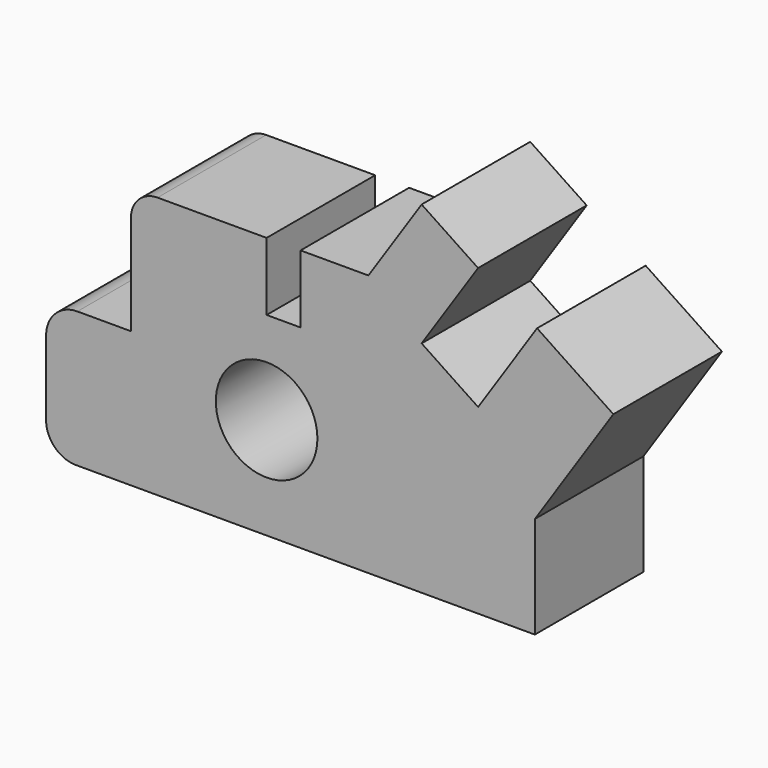
from build123d import *

# Parameters (mm, degrees)
F0_R     = 190.177038
F1_DEPTH = 508


with BuildPart() as f1:
    # F0 (on Front) → F1 (new body)
    with BuildSketch(Plane.XZ):
        with BuildLine():
            Line((-762.317914, -257.843844), (-762.317914, -630.775266))
            Line((-762.317914, -630.775266), (-962.661513, -630.775266))
            ThreePointArc((-962.661513, -630.775266), (-1045.503599, -665.089582), (-1079.817914, -747.931667))
            Line((-1079.817914, -747.931667), (-1079.817914, -1027.160609))
            ThreePointArc((-1079.817914, -1027.160609), (-1047.126738, -1106.08409), (-968.203257, -1138.775266))
            Line((-968.203257, -1138.775266), (749.761037, -1138.775266))
            Line((749.761037, -1138.775266), (749.761037, -757.775266))
            Line((749.761037, -757.775266), (1043.603773, -317.011162))
            Line((1043.603773, -317.011162), (758.109428, -126.681598))
            Line((758.109428, -126.681598), (537.293819, -457.905012))
            Line((537.293819, -457.905012), (325.953044, -317.011162))
            Line((325.953044, -317.011162), (537.293819, 0))
            Line((537.293819, 0), (325.953044, 140.89385))
            Line((325.953044, 140.89385), (126.682086, -158.012587))
            Line((126.682086, -158.012587), (-127.317914, -158.012587))
            Line((-127.317914, -158.012587), (-127.317914, -412.012587))
            Line((-127.317914, -412.012587), (-254.317914, -412.012587))
            Line((-254.317914, -412.012587), (-254.317914, -158.012587))
            Line((-254.317914, -158.012587), (-662.486657, -158.012587))
            ThreePointArc((-662.486657, -158.012587), (-733.078016, -187.252485), (-762.317914, -257.843844))
        make_face()
        with Locations((-254.317914, -757.775266)):
            Circle(F0_R, mode=Mode.SUBTRACT)
    extrude(amount=F1_DEPTH)


solid = f1.part
